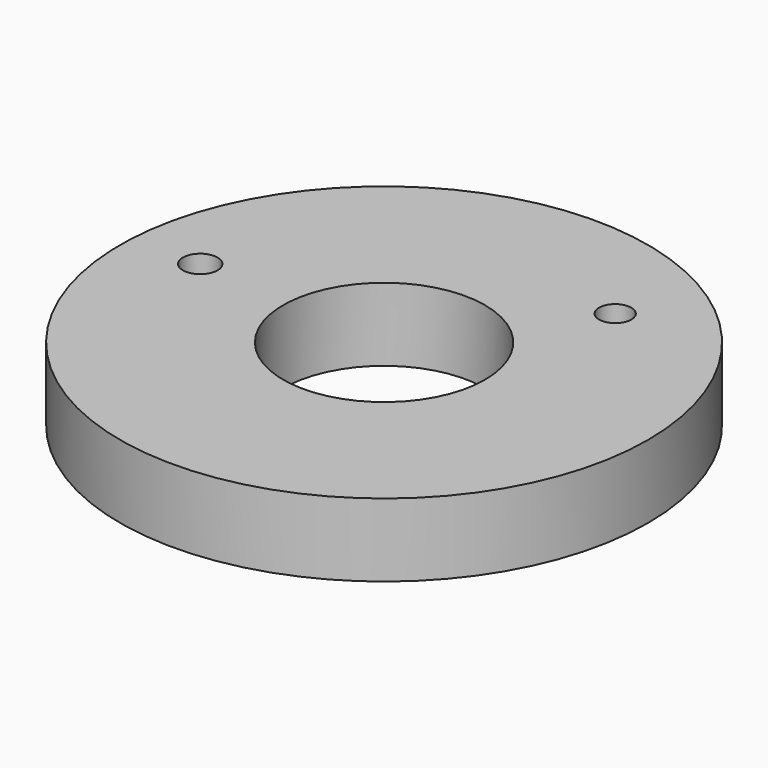
from build123d import *

# Parameters (mm, degrees)
F0_R     = 65.087187
F0_R_2   = 4.281193
F0_R_3   = 24.886881
F0_R_4   = 3.97539
F1_DEPTH = 18.034


with BuildPart() as f1:
    # F0 (on Top) → F1 (new body)
    with BuildSketch(Plane.XY):
        Circle(F0_R)
        with Locations((-48.096102, 3.451461)):
            Circle(F0_R_2, mode=Mode.SUBTRACT)
        Circle(F0_R_3, mode=Mode.SUBTRACT)
        with Locations((27.242353, 37.173685)):
            Circle(F0_R_4, mode=Mode.SUBTRACT)
    extrude(amount=F1_DEPTH)


solid = f1.part
